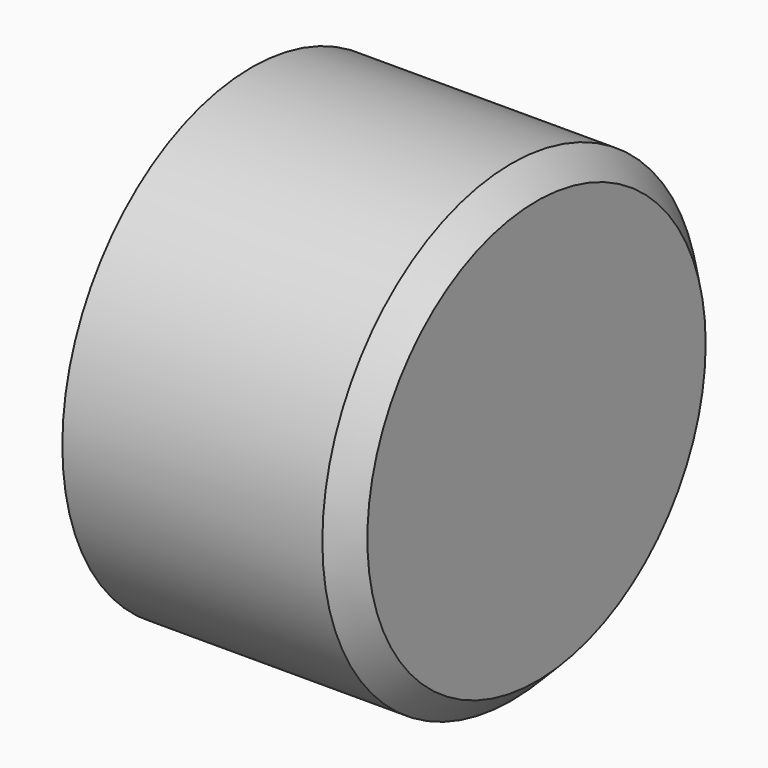
from build123d import *

# Parameters (mm, degrees)
F0_R     = 48.042511
F1_DEPTH = 57.912
F2_SIZE  = 5.08


with BuildPart() as f1:
    # F0 (on Right) → F1 (new body)
    with BuildSketch(Plane.YZ):
        Circle(F0_R)
    extrude(amount=F1_DEPTH)

    # F2
    f2_edges = [f1.edges().sort_by_distance(p)[0] for p in [
        (57.912, -48.042511, 0),
    ]]
    chamfer(f2_edges, length=F2_SIZE)


solid = f1.part
